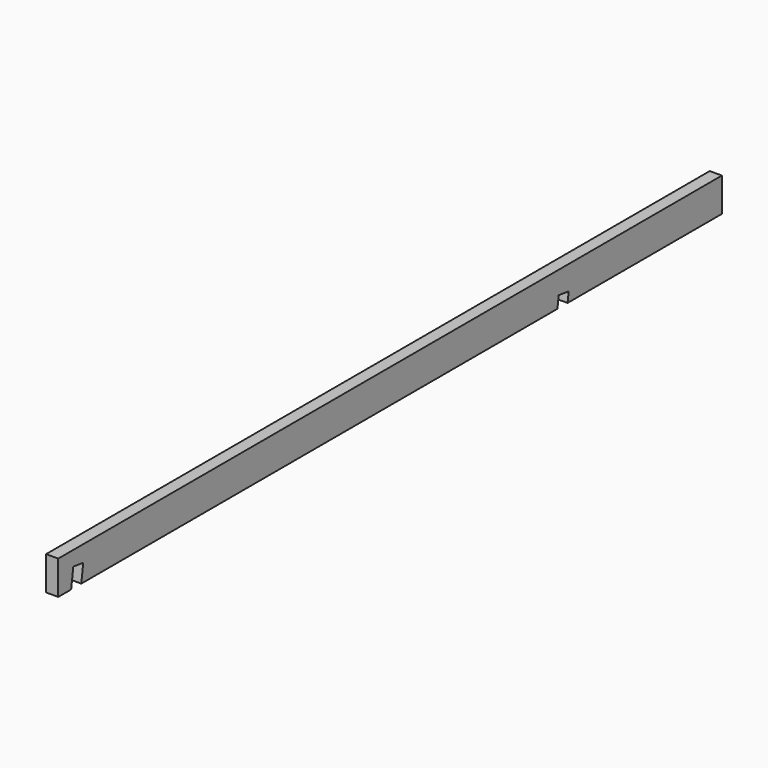
from build123d import *

# Parameters (mm, degrees)
F0_W     = 63
F0_H     = 175
F1_DEPTH = 2150
F3_DEPTH = 63


with BuildPart() as f1:
    # F0 (on Front) → F1 (new body, symmetric)
    with BuildSketch(Plane.XZ):
        Rectangle(F0_W, F0_H)
    extrude(amount=F1_DEPTH, both=True)

    # F2 (on face) → F3 (cut, through all)
    with BuildSketch(Plane.YZ.offset(31.5)):
        Polygon((1084.361208, -87.5), (1150, -87.5), (1157.027042, -37.5), (1092.659617, -28.453748), align=None)
        Polygon((-2066.300818, -87.5), (-2000.662026, -87.5), (-1988.013351, 2.5), (-2052.380776, 11.546252), align=None)
    extrude(amount=-F3_DEPTH, mode=Mode.SUBTRACT)


solid = f1.part
